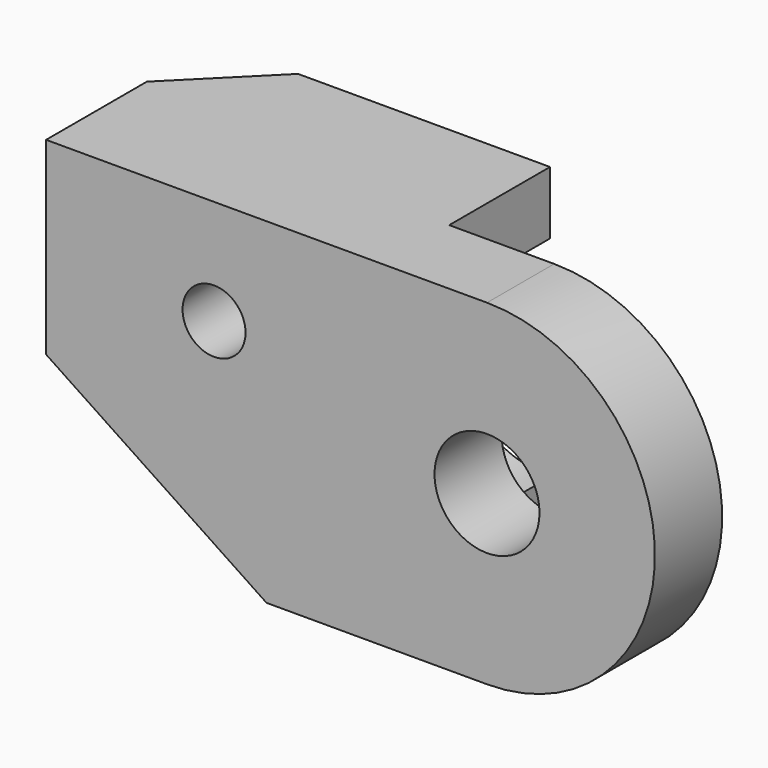
from build123d import *

# Parameters (mm, degrees)
F0_R     = 9.525
F0_R_2   = 15.875
F1_DEPTH = 31.75
F2_W     = 50.8
F2_H     = 38.1
F2_W_2   = 31.75
F3_DEPTH = 127
F5_DEPTH = 25.4


with BuildPart() as f1:
    # F0 (on Front) → F1 (new body, symmetric)
    with BuildSketch(Plane.XZ):
        with BuildLine():
            Line((-66.675, -50.8), (0, -50.8))
            ThreePointArc((0, -50.8), (50.8, 0), (0, 50.8))
            Line((0, 50.8), (-133.35, 50.8))
            Line((-133.35, 50.8), (-133.35, -6.35))
            Line((-133.35, -6.35), (-66.675, -50.8))
        make_face()
        with Locations((-82.55, 19.05)):
            Circle(F0_R, mode=Mode.SUBTRACT)
        Circle(F0_R_2, mode=Mode.SUBTRACT)
    extrude(amount=F1_DEPTH, both=True)

    # F2 (on face) → F3 (cut)
    with BuildSketch(Plane.XY.offset(50.8)):
        Polygon((-133.35, 6.35), (-107.95, 31.75), (-133.35, 31.75), align=None)
        with Locations((25.4, 12.7)):
            Rectangle(F2_W, F2_H)
        with Locations((-15.875, 12.7)):
            Rectangle(F2_W_2, F2_H)
    extrude(amount=-F3_DEPTH, mode=Mode.SUBTRACT)

    # F4 (on face) → F5 (cut)
    with BuildSketch(Plane(origin=(0, 31.75, 0), x_dir=(-1, 0, 0), z_dir=(0, 1, 0))):
        with BuildLine():
            Line((31.75, 0), (31.75, -31.75))
            ThreePointArc((31.75, -31.75), (63.5, 0), (31.75, 31.75))
            Line((31.75, 31.75), (31.75, 0))
        make_face()
    extrude(amount=-F5_DEPTH, mode=Mode.SUBTRACT)


solid = f1.part
